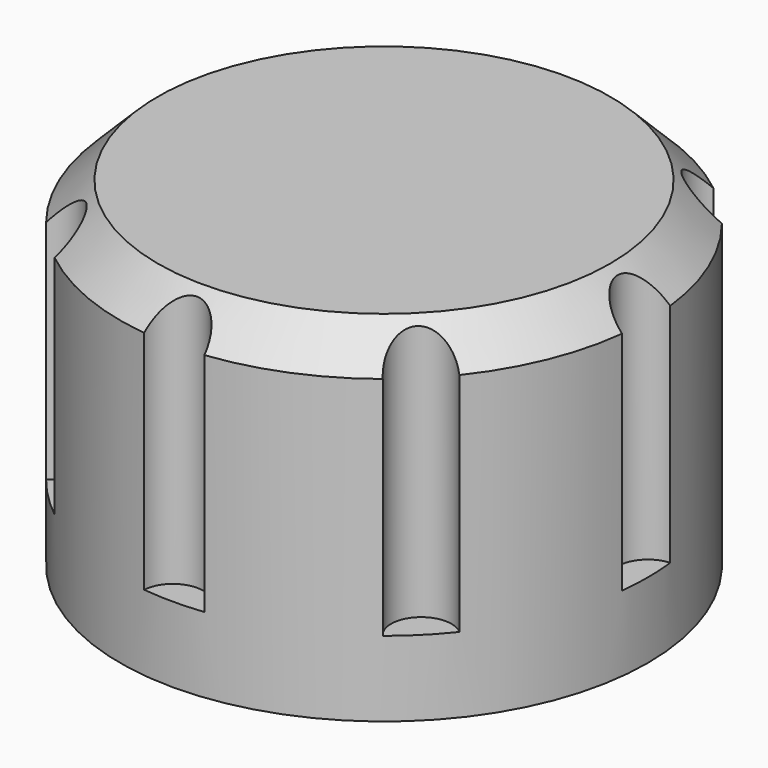
from build123d import *

# Parameters (mm, degrees)
CYLINDER001_R     = 0.8
CYLINDER001_DEPTH = 10
ARRAY_COUNT       = 8
CYLINDER_R        = 7
CYLINDER_DEPTH    = 9
CHAMFER_SIZE      = 1


with BuildPart() as array:
    # Cylinder001 → Cylinder001 (new body)
    with BuildSketch(Plane(origin=(7, 0, 0), x_dir=(1, 0, 0), z_dir=(0, 0, 1))):
        Circle(CYLINDER001_R)
    extrude(amount=CYLINDER001_DEPTH)

    # Array: Array ×8 about axis
    array_axis = Axis((0, 0, 0), (0, 0, 1))


with BuildPart() as array_1:
    add(array.part)
    for i in range(1, ARRAY_COUNT):
        add(array.part.rotate(array_axis, i * 360 / ARRAY_COUNT))


with BuildPart() as array_2:
    # Array placement: moved
    add(array_1.part.moved(Location((0, 0, 2))))


with BuildPart() as cut:
    # Cylinder → Cylinder (new body)
    with BuildSketch(Plane.XY):
        Circle(CYLINDER_R)
    extrude(amount=CYLINDER_DEPTH)

    # Chamfer
    chamfer_edges = [cut.edges().sort_by_distance(p)[0] for p in [
        (-7, 0, 9),
    ]]
    chamfer(chamfer_edges, length=CHAMFER_SIZE)

    # Cut: cut Array
    add(array_2.part, mode=Mode.SUBTRACT)


solid = cut.part
